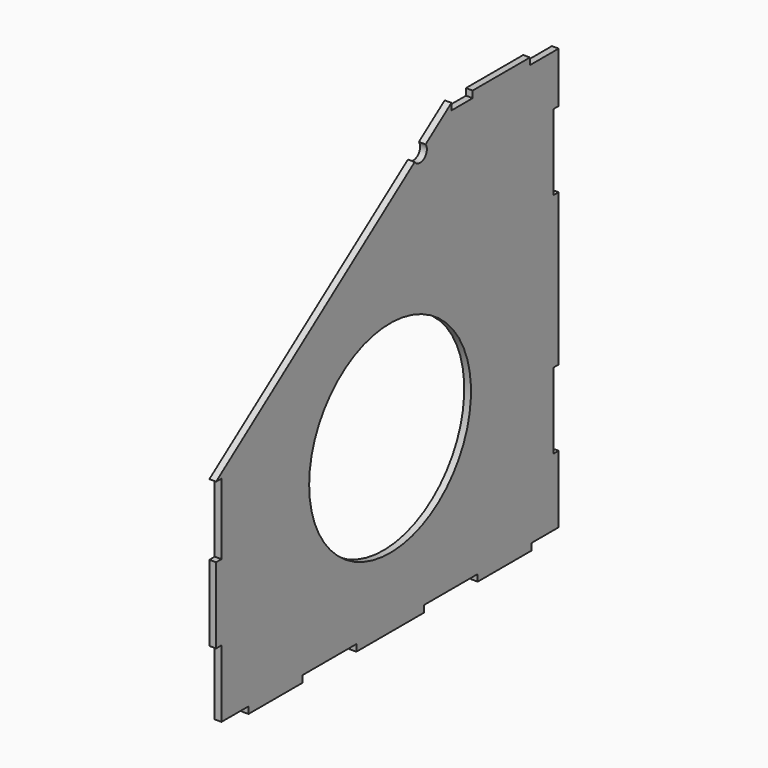
from build123d import *

# Parameters (mm, degrees)
F1_DEPTH = 4
F2_R     = 60
F3_DEPTH = 25


with BuildPart() as f1:
    # F0 (on Right) → F1 (new body)
    with BuildSketch(Plane.YZ):
        with BuildLine():
            Line((-20, 0), (0, 0))
            Line((0, 0), (0, 40))
            Line((0, 40), (-4, 40))
            Line((-4, 40), (-4, 85))
            Line((-4, 85), (0, 85))
            Line((0, 85), (0, 175))
            Line((0, 175), (-4, 175))
            Line((-4, 175), (-4, 220))
            Line((-4, 220), (0, 220))
            Line((0, 220), (0, 250))
            Line((0, 250), (-21.25, 250))
            Line((-21.25, 250), (-21.25, 254))
            Line((-21.25, 254), (-63.75, 254))
            Line((-63.75, 254), (-63.75, 250))
            Line((-63.75, 250), (-79.5, 250))
            Line((-79.5, 250), (-79.5, 254))
            Line((-79.5, 254), (-98.672283, 240.056522))
            ThreePointArc((-98.672283, 240.056522), (-99.775105, 233.071983), (-106.759644, 234.174805))
            Line((-106.759644, 234.174805), (-254, 127.090909))
            Line((-254, 127.090909), (-250, 127.090909))
            Line((-250, 127.090909), (-250, 85))
            Line((-250, 85), (-254, 85))
            Line((-254, 85), (-254, 40))
            Line((-254, 40), (-250, 40))
            Line((-250, 40), (-250, 0))
            Line((-250, 0), (-230, 0))
            Line((-230, 0), (-230, -4))
            Line((-230, -4), (-190, -4))
            Line((-190, -4), (-190, 0))
            Line((-190, 0), (-150, 0))
            Line((-150, 0), (-150, -4))
            Line((-150, -4), (-100, -4))
            Line((-100, -4), (-100, 0))
            Line((-100, 0), (-60, 0))
            Line((-60, 0), (-60, -4))
            Line((-60, -4), (-20, -4))
            Line((-20, -4), (-20, 0))
        make_face()
    extrude(amount=F1_DEPTH)

    # F2 (on face) → F3 (cut)
    with BuildSketch(Plane(origin=(0, 0, 0), x_dir=(0, -1, 0), z_dir=(-1, 0, 0))):
        with Locations((125, 97.391762)):
            Circle(F2_R)
    extrude(amount=-F3_DEPTH, mode=Mode.SUBTRACT)


solid = f1.part
